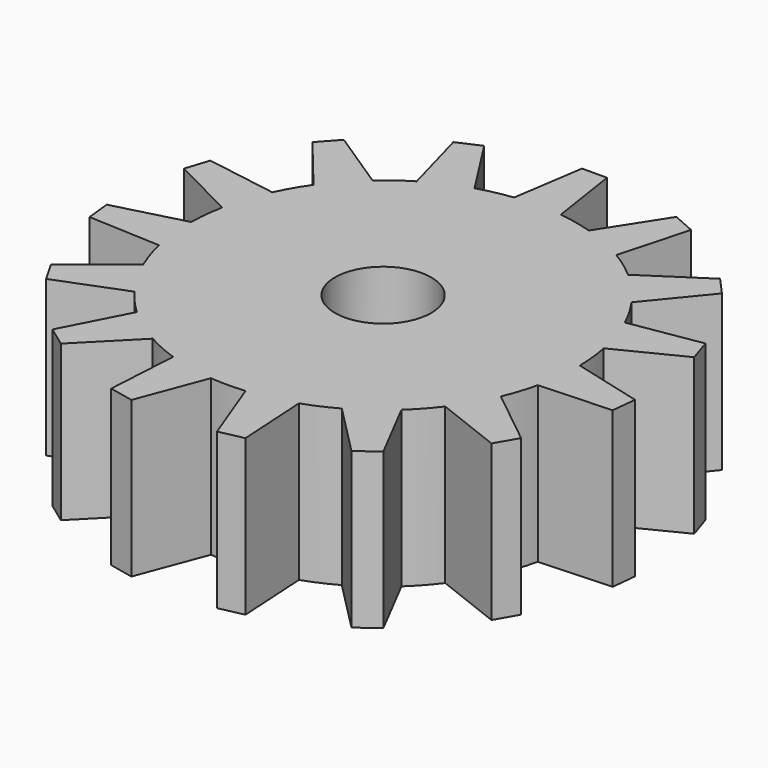
from build123d import *

# Parameters (mm, degrees)
F0_R     = 3.1
F1_DEPTH = 10


with BuildPart() as f1:
    # F0 (on Top) → F1 (new body)
    with BuildSketch(Plane.XY):
        with BuildLine():
            ThreePointArc((12.498485, 0.194619), (12.499621, 0.097312), (12.5, 0))
            ThreePointArc((12.5, 0), (12.420975, -1.403345), (12.184899, -2.788947))
            Line((12.184899, -2.788947), (16.823249, -2.572601))
            Line((16.823249, -2.572601), (16.990495, -0.981366))
            Line((16.990495, -0.981366), (12.498485, 0.194619))
        make_face()
        with BuildLine():
            Line((10.639563, -13.283061), (8.507749, -9.157959))
            ThreePointArc((8.507749, -9.157959), (7.347316, -10.112712), (6.080698, -10.921315))
            Line((6.080698, -10.921315), (9.345136, -14.223517))
            Line((9.345136, -14.223517), (10.639563, -13.283061))
        make_face()
        with BuildLine():
            Line((15.122432, -7.80718), (11.497093, -4.905799))
            ThreePointArc((11.497093, -4.905799), (10.825318, -6.25), (9.997093, -7.503875))
            Line((9.997093, -7.503875), (14.322432, -9.19282))
            Line((14.322432, -9.19282), (15.122432, -7.80718))
        make_face()
        with BuildLine():
            ThreePointArc((11.338775, 5.261385), (11.888206, 3.862712), (12.265826, 2.408215))
            Line((12.265826, 2.408215), (16.415174, 4.492444))
            Line((16.415174, 4.492444), (15.920747, 6.014134))
            Line((15.920747, 6.014134), (11.338775, 5.261385))
        make_face()
        with BuildLine():
            ThreePointArc((8.218489, 9.41841), (9.28931, 8.364133), (10.225881, 7.188975))
            Line((10.225881, 7.188975), (13.168767, 10.780704))
            Line((13.168767, 10.780704), (12.098158, 11.969736))
            Line((12.098158, 11.969736), (8.218489, 9.41841))
        make_face()
        with BuildLine():
            ThreePointArc((3.677151, 11.946906), (5.084208, 11.419318), (6.417787, 10.726696))
            Line((6.417787, 10.726696), (7.645359, 15.204883))
            Line((7.645359, 15.204883), (6.183687, 15.855662))
            Line((6.183687, 15.855662), (3.677151, 11.946906))
        make_face()
        with BuildLine():
            ThreePointArc((-1.5, 12.409674), (0, 12.5), (1.5, 12.409674))
            Line((1.5, 12.409674), (0.8, 17))
            Line((0.8, 17), (-0.8, 17))
            Line((-0.8, 17), (-1.5, 12.409674))
        make_face()
        with BuildLine():
            ThreePointArc((-6.417787, 10.726696), (-5.084208, 11.419318), (-3.677151, 11.946906))
            Line((-3.677151, 11.946906), (-6.183687, 15.855662))
            Line((-6.183687, 15.855662), (-7.645359, 15.204883))
            Line((-7.645359, 15.204883), (-6.417787, 10.726696))
        make_face()
        with BuildLine():
            ThreePointArc((-10.225881, 7.188975), (-9.28931, 8.364133), (-8.218489, 9.41841))
            Line((-8.218489, 9.41841), (-12.098158, 11.969736))
            Line((-12.098158, 11.969736), (-13.168767, 10.780704))
            Line((-13.168767, 10.780704), (-10.225881, 7.188975))
        make_face()
        with BuildLine():
            ThreePointArc((-12.265826, 2.408215), (-11.888206, 3.862712), (-11.338775, 5.261385))
            Line((-11.338775, 5.261385), (-15.920747, 6.014134))
            Line((-15.920747, 6.014134), (-16.415174, 4.492444))
            Line((-16.415174, 4.492444), (-12.265826, 2.408215))
        make_face()
        with BuildLine():
            Line((-16.823249, -2.572601), (-12.184899, -2.788947))
            ThreePointArc((-12.184899, -2.788947), (-12.431524, -1.306606), (-12.498485, 0.194619))
            Line((-12.498485, 0.194619), (-16.990495, -0.981366))
            Line((-16.990495, -0.981366), (-16.823249, -2.572601))
        make_face()
        with BuildLine():
            Line((-14.322432, -9.19282), (-9.997093, -7.503875))
            ThreePointArc((-9.997093, -7.503875), (-10.825318, -6.25), (-11.497093, -4.905799))
            Line((-11.497093, -4.905799), (-15.122432, -7.80718))
            Line((-15.122432, -7.80718), (-14.322432, -9.19282))
        make_face()
        with BuildLine():
            Line((-9.345136, -14.223517), (-6.080698, -10.921315))
            ThreePointArc((-6.080698, -10.921315), (-7.347316, -10.112712), (-8.507749, -9.157959))
            Line((-8.507749, -9.157959), (-10.639563, -13.283061))
            Line((-10.639563, -13.283061), (-9.345136, -14.223517))
        make_face()
        with BuildLine():
            Line((-2.751981, -16.794839), (-1.112895, -12.45036))
            ThreePointArc((-1.112895, -12.45036), (-2.598896, -12.226845), (-4.047338, -11.826625))
            Line((-4.047338, -11.826625), (-4.317017, -16.46218))
            Line((-4.317017, -16.46218), (-2.751981, -16.794839))
        make_face()
        with BuildLine():
            Line((4.317017, -16.46218), (4.047338, -11.826625))
            ThreePointArc((4.047338, -11.826625), (2.598896, -12.226845), (1.112895, -12.45036))
            Line((1.112895, -12.45036), (2.751981, -16.794839))
            Line((2.751981, -16.794839), (4.317017, -16.46218))
        make_face()
        with BuildLine():
            ThreePointArc((12.184899, -2.788947), (12.420975, -1.403345), (12.5, 0))
            ThreePointArc((12.5, 0), (12.499621, 0.097312), (12.498485, 0.194619))
            ThreePointArc((12.498485, 0.194619), (12.431524, 1.306606), (12.265826, 2.408215))
            ThreePointArc((12.265826, 2.408215), (11.888206, 3.862712), (11.338775, 5.261385))
            ThreePointArc((11.338775, 5.261385), (10.825318, 6.25), (10.225881, 7.188975))
            ThreePointArc((10.225881, 7.188975), (9.28931, 8.364133), (8.218489, 9.41841))
            ThreePointArc((8.218489, 9.41841), (7.347316, 10.112712), (6.417787, 10.726696))
            ThreePointArc((6.417787, 10.726696), (5.084208, 11.419318), (3.677151, 11.946906))
            ThreePointArc((3.677151, 11.946906), (2.598896, 12.226845), (1.5, 12.409674))
            Line((1.5, 12.409674), (-1.5, 12.409674))
            ThreePointArc((-1.5, 12.409674), (-2.598896, 12.226845), (-3.677151, 11.946906))
            ThreePointArc((-3.677151, 11.946906), (-5.084208, 11.419318), (-6.417787, 10.726696))
            ThreePointArc((-6.417787, 10.726696), (-7.347316, 10.112712), (-8.218489, 9.41841))
            ThreePointArc((-8.218489, 9.41841), (-9.28931, 8.364133), (-10.225881, 7.188975))
            ThreePointArc((-10.225881, 7.188975), (-10.825318, 6.25), (-11.338775, 5.261385))
            ThreePointArc((-11.338775, 5.261385), (-11.888206, 3.862712), (-12.265826, 2.408215))
            ThreePointArc((-12.265826, 2.408215), (-12.431524, 1.306606), (-12.498485, 0.194619))
            ThreePointArc((-12.498485, 0.194619), (-12.431524, -1.306606), (-12.184899, -2.788947))
            ThreePointArc((-12.184899, -2.788947), (-11.888206, -3.862712), (-11.497093, -4.905799))
            ThreePointArc((-11.497093, -4.905799), (-10.825318, -6.25), (-9.997093, -7.503875))
            ThreePointArc((-9.997093, -7.503875), (-9.28931, -8.364133), (-8.507749, -9.157959))
            ThreePointArc((-8.507749, -9.157959), (-7.347316, -10.112712), (-6.080698, -10.921315))
            ThreePointArc((-6.080698, -10.921315), (-5.084208, -11.419318), (-4.047338, -11.826625))
            ThreePointArc((-4.047338, -11.826625), (-2.598896, -12.226845), (-1.112895, -12.45036))
            ThreePointArc((-1.112895, -12.45036), (0, -12.5), (1.112895, -12.45036))
            ThreePointArc((1.112895, -12.45036), (2.598896, -12.226845), (4.047338, -11.826625))
            ThreePointArc((4.047338, -11.826625), (5.084208, -11.419318), (6.080698, -10.921315))
            ThreePointArc((6.080698, -10.921315), (7.347316, -10.112712), (8.507749, -9.157959))
            ThreePointArc((8.507749, -9.157959), (9.28931, -8.364133), (9.997093, -7.503875))
            ThreePointArc((9.997093, -7.503875), (10.825318, -6.25), (11.497093, -4.905799))
            ThreePointArc((11.497093, -4.905799), (11.888206, -3.862712), (12.184899, -2.788947))
        make_face()
        Circle(F0_R, mode=Mode.SUBTRACT)
        with BuildLine():
            Line((-1.5, 12.409674), (1.5, 12.409674))
            ThreePointArc((1.5, 12.409674), (0, 12.5), (-1.5, 12.409674))
        make_face()
    extrude(amount=F1_DEPTH)


solid = f1.part
